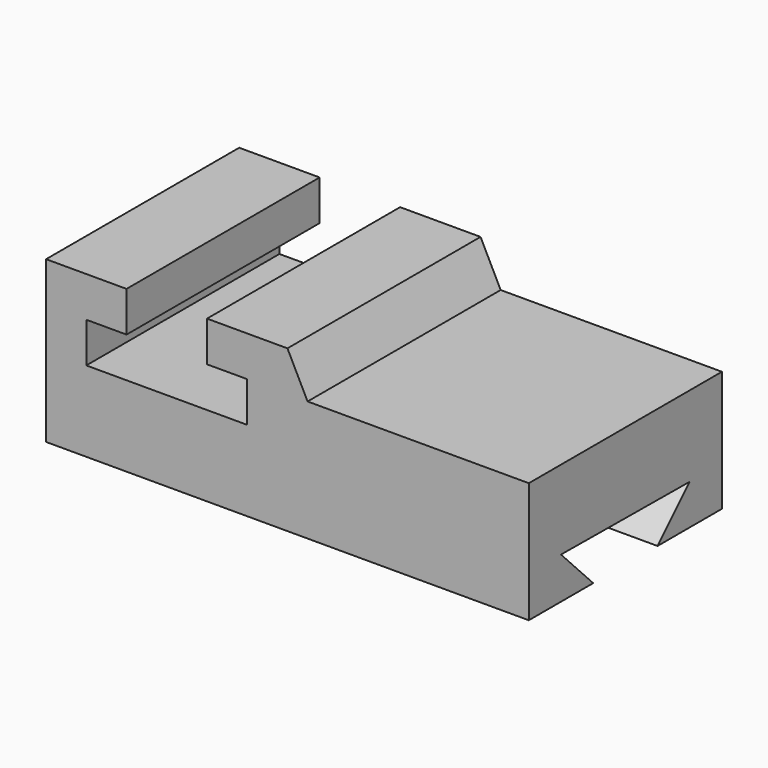
from build123d import *

# Parameters (mm, degrees)
F1_DEPTH = 76.2
F3_DEPTH = 152.4


with BuildPart() as f1:
    # F0 (on Front) → F1 (new body)
    with BuildSketch(Plane.XZ):
        Polygon((0, 50.8), (0, 0), (152.4, 0), (152.4, 38.1), (82.55, 38.1), (76.2, 50.8), (50.8, 50.8), (50.8, 38.1), (63.5, 38.1), (63.5, 25.4), (12.7, 25.4), (12.7, 38.1), (25.4, 38.1), (25.4, 50.8), align=None)
    extrude(amount=F1_DEPTH)

    # F2 (on face) → F3 (cut)
    with BuildSketch(Plane.YZ.offset(152.4)):
        Polygon((-12.701643, 12.7), (-63.5, 13.108566), (-50.8, 0), (-25.4, 0), align=None)
    extrude(amount=-F3_DEPTH, mode=Mode.SUBTRACT)


solid = f1.part
